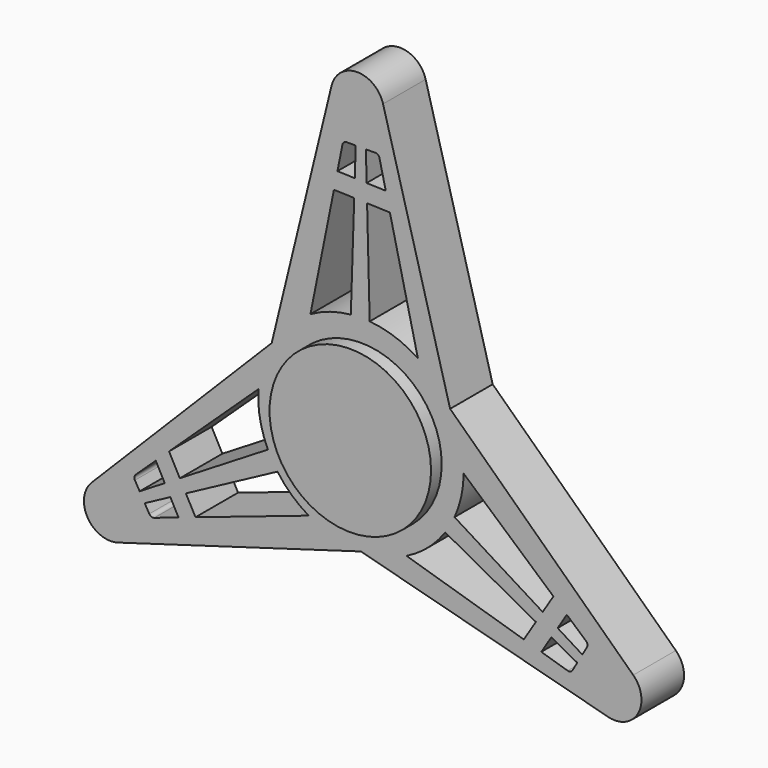
from build123d import *

# Parameters (mm, degrees)
F0_R     = 12.1418390121
F1_DEPTH = 8
F2_DEPTH = 2
F3_DEPTH = 10


with BuildPart() as f1:
    # F0 (on Front) → F1 (new body)
    with BuildSketch(Plane.XZ):
        with BuildLine():
            ThreePointArc((13.4494333026, 7.5968233332), (14.9390037013, 3.9274863881), (15.4466495046, 0))
            ThreePointArc((15.4466495046, 0), (15.4464658378, -0.0753262184), (15.4459148418, -0.1506506455))
            Line((15.4459148418, -0.1506506455), (28.9365164109, -12.0200237039))
            Line((28.9365164109, -12.0200237039), (30.9517174769, -13.7930486589))
            Line((30.9517174769, -13.7930486589), (33.8445656343, -16.338249761))
            ThreePointArc((33.8445656343, -16.338249761), (34.0502262206, -16.7093721334), (33.9741020568, -17.1267846437))
            Line((33.9741020568, -17.1267846437), (33.287475865, -18.3160560936))
            Line((33.287475865, -18.3160560936), (32.5234499077, -19.63938787))
            Line((32.5234499077, -19.63938787), (31.8108983077, -20.8735634443))
            ThreePointArc((31.8108983077, -20.8735634443), (31.4969505806, -21.1445308611), (31.0825994105, -21.1618405147))
            Line((31.0825994105, -21.1618405147), (27.1155061195, -19.9633145088))
            Line((27.1155061195, -19.9633145088), (24.4909505049, -19.1703918504))
            Line((24.4909505049, -19.1703918504), (6.8549746085, -13.8422651338))
            ThreePointArc((6.8549746085, -13.8422651338), (3.5909934423, -15.0234399195), (0.1456746567, -15.4459625732))
            Line((0.1456746567, -15.4459625732), (0.0075583308, -15.4864247412))
            Line((0.0075583308, -15.4864247412), (37.1577128338, -25.2961649207))
            ThreePointArc((37.1577128338, -25.2961649207), (41.6695443761, -23.3820930381), (40.9410356224, -18.535489069))
            Line((40.9410356224, -18.535489069), (13.4078580743, 7.7497580771))
            Line((13.4078580743, 7.7497580771), (13.4494333026, 7.5968233332))
        make_face()
        with BuildLine():
            ThreePointArc((13.3037586459, 7.8491392399), (13.3771908743, 7.7233247523), (13.4494333026, 7.5968233332))
            Line((13.4494333026, 7.5968233332), (13.4078580743, 7.7497580771))
            Line((13.4078580743, 7.7497580771), (13.3037586459, 7.8491392399))
        make_face()
        with BuildLine():
            ThreePointArc((8.5602659475, 12.8577147202), (11.2151839013, 10.6216115056), (13.3037586459, 7.8491392399))
            Line((13.3037586459, 7.8491392399), (13.4078580743, 7.7497580771))
            Line((13.4078580743, 7.7497580771), (3.3282650227, 44.8276057209))
            ThreePointArc((3.3282650227, 44.8276057209), (-0.5852856234, 47.7779305128), (-4.4183134059, 44.7237214407))
            Line((-4.4183134059, 44.7237214407), (-13.4154164051, 7.7366666641))
            Line((-13.4154164051, 7.7366666641), (-13.3037586459, 7.8491392399))
            ThreePointArc((-13.3037586459, 7.8491392399), (-10.8171613269, 11.0266949602), (-7.5924901348, 13.4518799604))
            Line((-7.5924901348, 13.4518799604), (-4.0586123238, 31.0697701608))
            Line((-4.0586123238, 31.0697701608), (-3.5307282042, 33.7014979552))
            Line((-3.5307282042, 33.7014979552), (-2.7729434708, 37.4793784999))
            ThreePointArc((-2.7729434708, 37.4793784999), (-2.5543723614, 37.8430469783), (-2.1548204418, 37.9858277738))
            Line((-2.1548204418, 37.9858277738), (-0.7815680583, 37.9858277738))
            Line((-0.7815680583, 37.9858277738), (0.7464838564, 37.9858277738))
            Line((0.7464838564, 37.9858277738), (2.1715870564, 37.9858277738))
            ThreePointArc((2.1715870564, 37.9858277738), (2.5632255865, 37.8494247751), (2.7853917713, 37.4992409625))
            Line((2.7853917713, 37.4992409625), (3.7309844486, 33.4643743904))
            Line((3.7309844486, 33.4643743904), (4.3565710905, 30.7949812253))
            Line((4.3565710905, 30.7949812253), (8.5602659475, 12.8577147202))
        make_face()
        with BuildLine():
            Line((-13.3037586459, 7.8491392399), (-13.4154164051, 7.7366666641))
            Line((-13.4154164051, 7.7366666641), (-13.4494333026, 7.5968233332))
            ThreePointArc((-13.4494333026, 7.5968233332), (-13.3771908743, 7.7233247523), (-13.3037586459, 7.8491392399))
        make_face()
        with BuildLine():
            Line((-13.4494333026, 7.5968233332), (-13.4154164051, 7.7366666641))
            Line((-13.4154164051, 7.7366666641), (-40.4859778565, -19.5314408002))
            ThreePointArc((-40.4859778565, -19.5314408002), (-41.0842587527, -24.3958374747), (-36.5227222165, -26.1882323718))
            Line((-36.5227222165, -26.1882323718), (0.0075583308, -15.4864247412))
            Line((0.0075583308, -15.4864247412), (-0.1456746567, -15.4459625732))
            ThreePointArc((-0.1456746567, -15.4459625732), (-4.1408172919, -14.881283986), (-7.853424707, -13.3012293149))
            Line((-7.853424707, -13.3012293149), (-24.8779040871, -19.0497464569))
            Line((-24.8779040871, -19.0497464569), (-27.4209892727, -19.9084492963))
            Line((-27.4209892727, -19.9084492963), (-31.0716221636, -21.1411287389))
            ThreePointArc((-31.0716221636, -21.1411287389), (-31.4958538591, -21.1336748449), (-31.819281615, -20.8590431301))
            Line((-31.819281615, -20.8590431301), (-32.5059078068, -19.6697716802))
            Line((-32.5059078068, -19.6697716802), (-33.2699337641, -18.3464399038))
            Line((-33.2699337641, -18.3464399038), (-33.9824853641, -17.1122643295))
            ThreePointArc((-33.9824853641, -17.1122643295), (-34.0601761671, -16.704893914), (-33.8679911818, -16.3374004478))
            Line((-33.8679911818, -16.3374004478), (-30.8464905681, -13.5010598816))
            Line((-30.8464905681, -13.5010598816), (-28.8475215954, -11.6245893748))
            Line((-28.8475215954, -11.6245893748), (-15.415240556, 0.9845504136))
            ThreePointArc((-15.415240556, 0.9845504136), (-14.8061773437, 4.4018284139), (-13.4494333026, 7.5968233332))
        make_face()
        with BuildLine():
            Line((-0.1456746567, -15.4459625732), (0.0075583308, -15.4864247412))
            Line((0.0075583308, -15.4864247412), (0.1456746567, -15.4459625732))
            ThreePointArc((0.1456746567, -15.4459625732), (0, -15.4466495046), (-0.1456746567, -15.4459625732))
        make_face()
        Polygon((-28.6505205455, -17.6086149121), (-29.4913038382, -16.0359324036), (-33.2699337641, -18.3464399038), (-32.5059078068, -19.6697716802), align=None)
        Polygon((-26.3156893084, -16.360373716), (-27.2287665842, -14.6524655394), (-29.4913038382, -16.0359324036), (-28.6505205455, -17.6086149121), align=None)
        with BuildLine():
            ThreePointArc((-12.552260982, -9.0022066826), (-13.3257357106, -7.8117698819), (-13.9866503322, -6.5553484576))
            Line((-13.9866503322, -6.5553484576), (-27.2287665842, -14.6524655394))
            Line((-27.2287665842, -14.6524655394), (-26.3156893084, -16.360373716))
            Line((-26.3156893084, -16.360373716), (-12.552260982, -9.0022066826))
        make_face()
        with BuildLine():
            ThreePointArc((15.4459148418, -0.1506506455), (15.4464658378, -0.0753262184), (15.4466495046, 0))
            ThreePointArc((15.4466495046, 0), (14.9390037013, 3.9274863881), (13.4494333026, 7.5968233332))
            ThreePointArc((13.4494333026, 7.5968233332), (13.3771908743, 7.7233247523), (13.3037586459, 7.8491392399))
            ThreePointArc((13.3037586459, 7.8491392399), (11.2151839013, 10.6216115056), (8.5602659475, 12.8577147202))
            ThreePointArc((8.5602659475, 12.8577147202), (5.0980376929, 14.5811176732), (1.3162268711, 15.3904687304))
            ThreePointArc((1.3162268711, 15.3904687304), (-0.1023233109, 15.4463105905), (-1.5200091862, 15.3716802267))
            ThreePointArc((-1.5200091862, 15.3716802267), (-4.6562666627, 14.7281418272), (-7.5924901348, 13.4518799604))
            ThreePointArc((-7.5924901348, 13.4518799604), (-10.8171613269, 11.0266949602), (-13.3037586459, 7.8491392399))
            ThreePointArc((-13.3037586459, 7.8491392399), (-13.3771908743, 7.7233247523), (-13.4494333026, 7.5968233332))
            ThreePointArc((-13.4494333026, 7.5968233332), (-14.8061773437, 4.4018284139), (-15.415240556, 0.9845504136))
            ThreePointArc((-15.415240556, 0.9845504136), (-15.176637167, -2.8755286851), (-13.9866503322, -6.5553484576))
            ThreePointArc((-13.9866503322, -6.5553484576), (-13.3257357106, -7.8117698819), (-12.552260982, -9.0022066826))
            ThreePointArc((-12.552260982, -9.0022066826), (-10.4268116415, -11.3965161303), (-7.853424707, -13.3012293149))
            ThreePointArc((-7.853424707, -13.3012293149), (-4.1408172919, -14.881283986), (-0.1456746567, -15.4459625732))
            ThreePointArc((-0.1456746567, -15.4459625732), (0, -15.4466495046), (0.1456746567, -15.4459625732))
            ThreePointArc((0.1456746567, -15.4459625732), (3.5909934423, -15.0234399195), (6.8549746085, -13.8422651338))
            ThreePointArc((6.8549746085, -13.8422651338), (10.0785994741, -11.7055889881), (12.6704234611, -8.8351202727))
            ThreePointArc((12.6704234611, -8.8351202727), (13.4280590215, -7.6345407086), (14.0722701682, -6.3694735441))
            ThreePointArc((14.0722701682, -6.3694735441), (15.0830783043, -3.3316256969), (15.4459148418, -0.1506506455))
        make_face()
        Circle(F0_R, mode=Mode.SUBTRACT)
        Polygon((-0.9242475666, 33.6163860801), (0.8581270842, 33.5581845165), (0.7464838564, 37.9858277738), (-0.7815680583, 37.9858277738), align=None)
        Polygon((-1.0106545992, 30.9702423172), (0.9249759069, 30.9070363453), (0.8581270842, 33.5581845165), (-0.9242475666, 33.6163860801), align=None)
        with BuildLine():
            ThreePointArc((-1.5200091862, 15.3716802267), (-0.1023233109, 15.4463105905), (1.3162268711, 15.3904687304))
            Line((1.3162268711, 15.3904687304), (0.9249759069, 30.9070363453))
            Line((0.9249759069, 30.9070363453), (-1.0106545992, 30.9702423172))
            Line((-1.0106545992, 30.9702423172), (-1.5200091862, 15.3716802267))
        make_face()
        Polygon((33.287475865, -18.3160560936), (29.5747681121, -16.007771168), (28.633176754, -17.5222521128), (32.5234499077, -19.63938787), align=None)
        Polygon((29.5747681121, -16.007771168), (27.3263439077, -14.6098686012), (26.3037906773, -16.254570806), (28.633176754, -17.5222521128), align=None)
        with BuildLine():
            Line((27.3263439077, -14.6098686012), (14.0722701682, -6.3694735441))
            ThreePointArc((14.0722701682, -6.3694735441), (13.4280590215, -7.6345407086), (12.6704234611, -8.8351202727))
            Line((12.6704234611, -8.8351202727), (26.3037906773, -16.254570806))
            Line((26.3037906773, -16.254570806), (27.3263439077, -14.6098686012))
        make_face()
        Polygon((0.9249759069, 30.9070363453), (4.3565710905, 30.7949812253), (3.7309844486, 33.4643743904), (0.8581270842, 33.5581845165), align=None)
        Polygon((-4.0586123238, 31.0697701608), (-1.0106545992, 30.9702423172), (-0.9242475666, 33.6163860801), (-3.5307282042, 33.7014979552), align=None)
        Polygon((-27.2287665842, -14.6524655394), (-28.8475215954, -11.6245893748), (-30.8464905681, -13.5010598816), (-29.4913038382, -16.0359324036), align=None)
        Polygon((-27.4209892727, -19.9084492963), (-24.8779040871, -19.0497464569), (-26.3156893084, -16.360373716), (-28.6505205455, -17.6086149121), align=None)
        Polygon((30.9517174769, -13.7930486589), (28.9365164109, -12.0200237039), (27.3263439077, -14.6098686012), (29.5747681121, -16.007771168), align=None)
        Polygon((28.633176754, -17.5222521128), (26.3037906773, -16.254570806), (24.4909505049, -19.1703918504), (27.1155061195, -19.9633145088), align=None)
    extrude(amount=F1_DEPTH)


with BuildPart() as f2:
    # F0 (on Front) → F2 (new body)
    with BuildSketch(Plane.XZ):
        Circle(F0_R)
    extrude(amount=-F2_DEPTH)


with BuildPart() as f3:
    # F0 (on Front) → F3 (new body)
    with BuildSketch(Plane.XZ):
        Circle(F0_R)
    extrude(amount=F3_DEPTH)


solid = Compound([f1.part, f2.part, f3.part])
